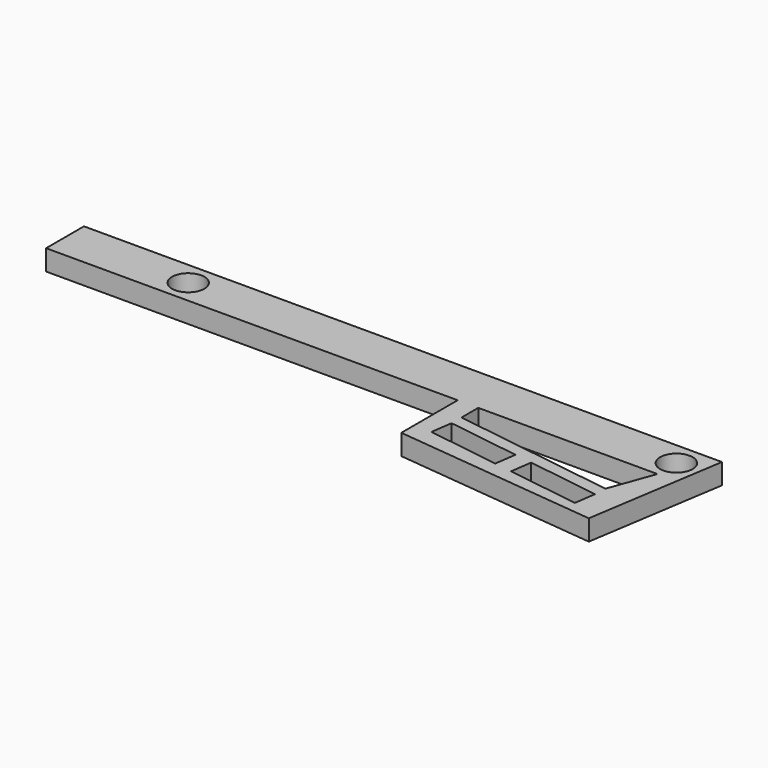
from build123d import *

# Parameters (mm, degrees)
PAD_DEPTH    = 4
SKETCH001_R  = 3.15
POCKET_DEPTH = 5


with BuildPart() as part:
    # Sketch → Pad (new body)
    with BuildSketch(Plane.XY):
        Polygon((0, 9.2), (0, 0), (80, 0), (80, -13.7), (119.781694, -17.873343), (124, 9.2), align=None)
    extrude(amount=PAD_DEPTH)

    # Sketch001 (on DatumPlane) → Pocket (cut)
    with BuildSketch(Plane.XY.offset(4)):
        with Locations((23.95, 4.6)):
            Circle(SKETCH001_R)
        with Locations((118.83, 4.6)):
            Circle(SKETCH001_R)
        Polygon((84, 0), (118.83, 0), (115.67, -8.7), (84, -4.07), align=None)
        Polygon((84, -6.47), (98.050642, -8.524135), (97.44308, -12.679959), (83.392439, -10.625824), align=None)
        Polygon((101.52, -9.03), (115.570642, -11.084135), (114.96308, -15.239959), (100.912439, -13.185824), align=None)
    extrude(amount=-POCKET_DEPTH, mode=Mode.SUBTRACT)


solid = part.part
